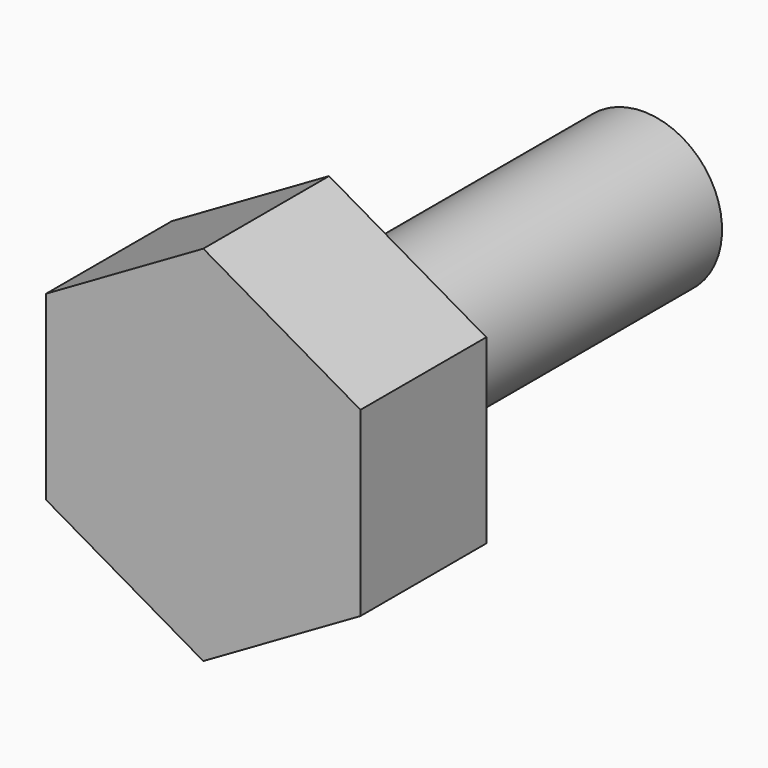
from build123d import *

# Parameters (mm, degrees)
F0_R     = 1
F1_DEPTH = 2
F2_R     = 1
F3_DEPTH = 5
F4_DEPTH = 2


with BuildPart() as f1:
    # F0 (on Front) → F1 (new body)
    with BuildSketch(Plane.XZ):
        Polygon((-2, 1.1547005384), (-2, -1.1547005384), (0, -2.3094010768), (2, -1.1547005384), (2, 1.1547005384), (0, 2.3094010768), align=None)
        Circle(F0_R, mode=Mode.SUBTRACT)
        Circle(F0_R)
    extrude(amount=F1_DEPTH)

    # F2 (on face) → F3 (join)
    with BuildSketch(Plane(origin=(0, 0, 0), x_dir=(-1, 0, 0), z_dir=(0, 1, 0))):
        Circle(F2_R)
    extrude(amount=F3_DEPTH)

    # F0 (on Front) → F4 (join)
    with BuildSketch(Plane.XZ):
        Polygon((-2, 1.1547005384), (-2, -1.1547005384), (0, -2.3094010768), (2, -1.1547005384), (2, 1.1547005384), (0, 2.3094010768), align=None)
        Circle(F0_R, mode=Mode.SUBTRACT)
    extrude(amount=F4_DEPTH)


solid = f1.part
